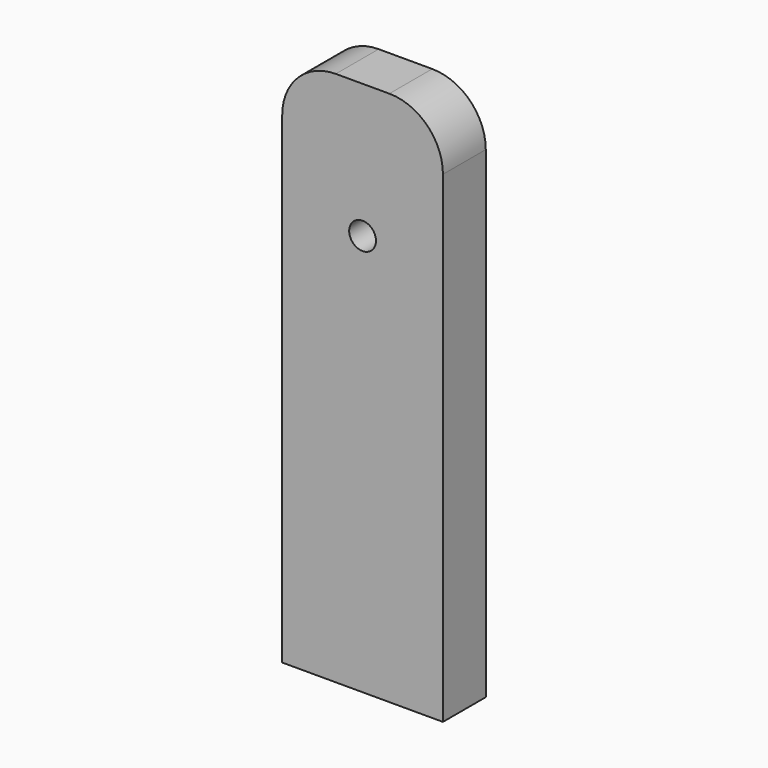
from build123d import *

# Parameters (mm, degrees)
F0_W     = 76.2
F0_H     = 25.4
F1_DEPTH = 254
F2_R     = 25.4
F4_D     = 12.7


with BuildPart() as f1:
    # F0 (on Top) → F1 (new body)
    with BuildSketch(Plane.XY):
        with Locations((38.1, 41.066651)):
            Rectangle(F0_W, F0_H)
    extrude(amount=F1_DEPTH)

    # F2
    f2_edges = [f1.edges().sort_by_distance(p)[0] for p in [
        (0, 41.066651, 254),
        (76.2, 41.066651, 254),
    ]]
    fillet(f2_edges, radius=F2_R)

    # F4 (through all)
    with Locations(Plane(origin=(0, 53.766651, 0), x_dir=(-1, 0, 0), z_dir=(0, 1, 0))):
        with Locations((-38.1, 190.5)):
            Hole(F4_D / 2)


solid = f1.part
